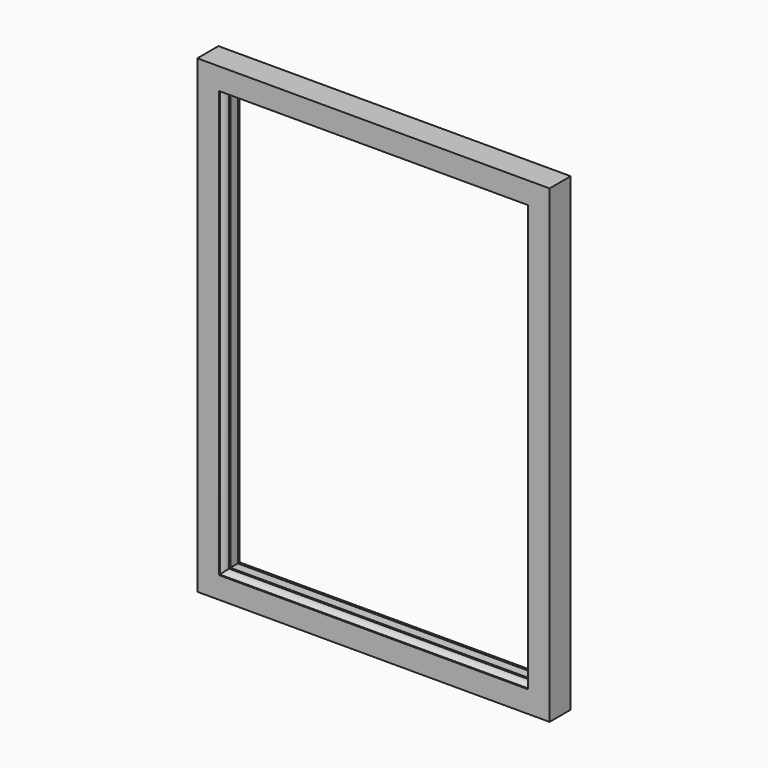
from build123d import *


with BuildPart() as f2:
    # F2: sweep along a path in F0
    with BuildLine(Plane.XZ) as f2_path:
        Line((300, 400), (-300, 400))
        Line((-300, 400), (-300, -400))
        Line((-300, -400), (300, -400))
        Line((300, -400), (300, 400))
    # F1 (on Top) → F2 (sweep)
    with BuildSketch(Plane.XY):
        with BuildLine():
            Line((-265, 0), (-300, 0))
            Line((-300, 0), (-300, -45))
            Line((-300, -45), (-263, -45))
            Line((-263, -45), (-263, -43))
            ThreePointArc((-263, -43), (-258.583592135, -37.7082039325), (-257, -31))
            Line((-257, -31), (-255, -31))
            Line((-255, -31), (-255, -15))
            Line((-255, -15), (-265, -15))
            Line((-265, -15), (-265, -11))
            Line((-265, -11), (-255, -11))
            Line((-255, -11), (-265, 0))
        make_face()
    sweep(path=f2_path.line, transition=Transition.RIGHT)


solid = f2.part
